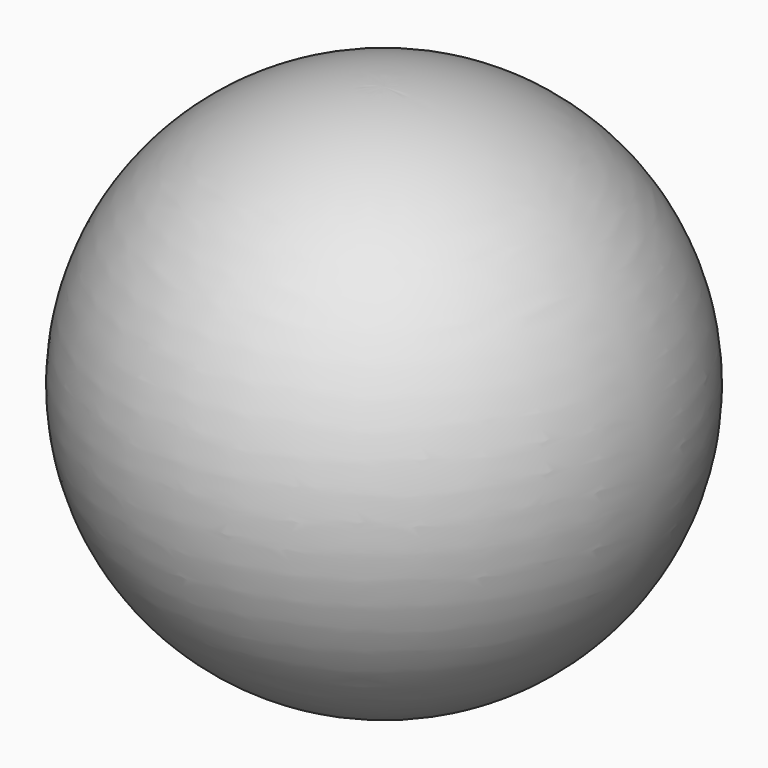
from build123d import *


with BuildPart() as f1:
    # F0 (on Front) → F1 (revolve)
    with BuildSketch(Plane.XZ):
        with BuildLine():
            ThreePointArc((0, 0), (17.913588, 17.753553), (0, 35.507105))
            Line((0, 35.507105), (0, 20.626545))
            Line((0, 20.626545), (0, 0))
        make_face()
    revolve(axis=Axis((0, 0, 10.313272), (0, 0, -1)))


solid = f1.part
